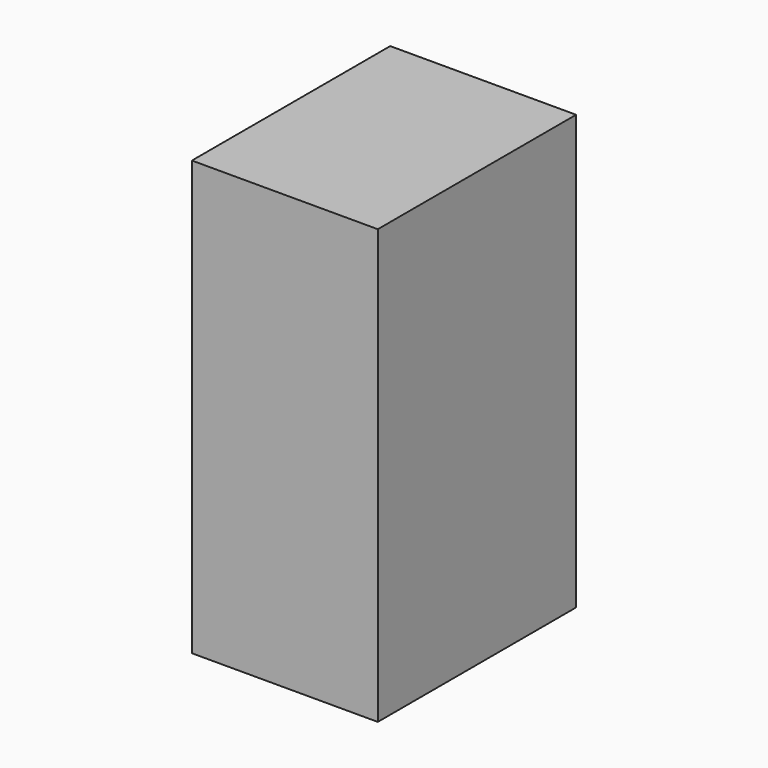
from build123d import *

# Parameters (mm, degrees)
F1_DEPTH = 88.9


with BuildPart() as f1:
    # F0 (on Top) → F1 (new body, symmetric)
    with BuildSketch(Plane.XY):
        Polygon((38.1, 50.8), (-38.1, 50.8), (-38.1, -50.8), align=None)
        Polygon((38.1, -50.8), (38.1, 50.8), (-38.1, -50.8), align=None)
    extrude(amount=F1_DEPTH, both=True)


solid = f1.part
